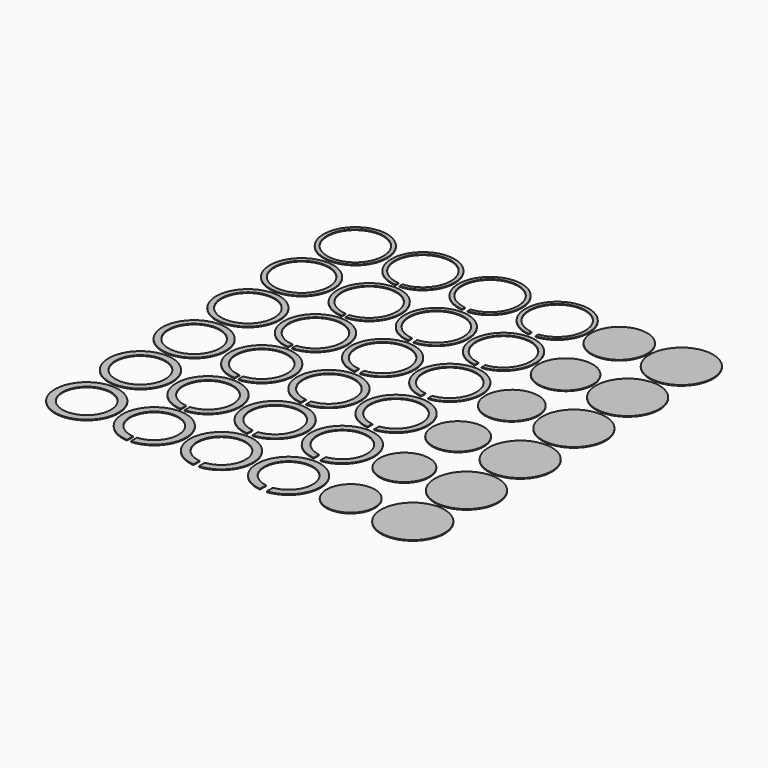
from build123d import *

# Parameters (mm, degrees)
F1_DEPTH = 1
F2_R     = 37
F2_R_2   = 42
F2_R_3   = 36
F2_R_4   = 35
F2_R_5   = 34
F2_R_6   = 33
F2_R_7   = 32
F3_DEPTH = 1
F4_R     = 42
F4_R_2   = 37
F4_R_3   = 36
F4_R_4   = 35
F4_R_5   = 34
F4_R_6   = 33
F4_R_7   = 32
F5_DEPTH = 1


with BuildPart() as f1:
    # F0 (on Top) → F1 (new body)
    with BuildSketch(Plane.XY):
        with BuildLine():
            Line((2.5, -36.915444), (2.5, -41.925529))
            ThreePointArc((2.5, -41.925529), (0, 42), (-2.5, -41.925529))
            Line((-2.5, -41.925529), (-2.5, -36.915444))
            ThreePointArc((-2.5, -36.915444), (0, 37), (2.5, -36.915444))
        make_face()
        with BuildLine():
            Line((92.4, -36.834087), (92.4, -41.853913))
            ThreePointArc((92.4, -41.853913), (88.9, 42), (85.4, -41.853913))
            Line((85.4, -41.853913), (85.4, -36.834087))
            ThreePointArc((85.4, -36.834087), (88.9, 37), (92.4, -36.834087))
        make_face()
        with BuildLine():
            Line((182.3, -36.725332), (182.3, -41.758233))
            ThreePointArc((182.3, -41.758233), (177.8, 42), (173.3, -41.758233))
            Line((173.3, -41.758233), (173.3, -36.725332))
            ThreePointArc((173.3, -36.725332), (177.8, 37), (182.3, -36.725332))
        make_face()
        with BuildLine():
            Line((92.4, -124.729457), (92.4, -130.753913))
            ThreePointArc((92.4, -130.753913), (88.9, -46.9), (85.4, -130.753913))
            Line((85.4, -130.753913), (85.4, -124.729457))
            ThreePointArc((85.4, -124.729457), (88.9, -52.9), (92.4, -124.729457))
        make_face()
        with BuildLine():
            Line((182.3, -124.617643), (182.3, -130.658233))
            ThreePointArc((182.3, -130.658233), (177.8, -46.9), (173.3, -130.658233))
            Line((173.3, -130.658233), (173.3, -124.617643))
            ThreePointArc((173.3, -124.617643), (177.8, -52.9), (182.3, -124.617643))
        make_face()
        with BuildLine():
            Line((2.5, -124.81309), (2.5, -130.825529))
            ThreePointArc((2.5, -130.825529), (0, -46.9), (-2.5, -130.825529))
            Line((-2.5, -130.825529), (-2.5, -125.815444))
            Line((-2.5, -125.815444), (-2.5, -124.81309))
            ThreePointArc((-2.5, -124.81309), (0, -52.9), (2.5, -124.81309))
        make_face()
        with BuildLine():
            Line((92.4, -212.62456), (92.4, -219.653913))
            ThreePointArc((92.4, -219.653913), (88.9, -135.8), (85.4, -219.653913))
            Line((85.4, -219.653913), (85.4, -212.62456))
            ThreePointArc((85.4, -212.62456), (88.9, -142.8), (92.4, -212.62456))
        make_face()
        with BuildLine():
            Line((182.3, -212.509509), (182.3, -219.558233))
            ThreePointArc((182.3, -219.558233), (177.8, -135.8), (173.3, -219.558233))
            Line((173.3, -219.558233), (173.3, -212.509509))
            ThreePointArc((173.3, -212.509509), (177.8, -142.8), (182.3, -212.509509))
        make_face()
        with BuildLine():
            Line((2.5, -212.7106), (2.5, -219.725529))
            ThreePointArc((2.5, -219.725529), (0, -135.8), (-2.5, -219.725529))
            Line((-2.5, -219.725529), (-2.5, -212.7106))
            ThreePointArc((-2.5, -212.7106), (0, -142.8), (2.5, -212.7106))
        make_face()
        with BuildLine():
            Line((92.4, -300.519373), (92.4, -308.553913))
            ThreePointArc((92.4, -308.553913), (88.9, -224.7), (85.4, -308.553913))
            Line((85.4, -308.553913), (85.4, -300.519373))
            ThreePointArc((85.4, -300.519373), (88.9, -232.7), (92.4, -300.519373))
        make_face()
        with BuildLine():
            Line((182.3, -300.40089), (182.3, -308.458233))
            ThreePointArc((182.3, -308.458233), (177.8, -224.7), (173.3, -308.458233))
            Line((173.3, -308.458233), (173.3, -300.40089))
            ThreePointArc((173.3, -300.40089), (177.8, -232.7), (182.3, -300.40089))
        make_face()
        with BuildLine():
            Line((2.5, -300.607964), (2.5, -308.625529))
            ThreePointArc((2.5, -308.625529), (0, -224.7), (-2.5, -308.625529))
            Line((-2.5, -308.625529), (-2.5, -300.607964))
            ThreePointArc((-2.5, -300.607964), (0, -232.7), (2.5, -300.607964))
        make_face()
        with BuildLine():
            Line((92.4, -388.413869), (92.4, -397.453913))
            ThreePointArc((92.4, -397.453913), (88.9, -313.6), (85.4, -397.453913))
            Line((85.4, -397.453913), (85.4, -388.413869))
            ThreePointArc((85.4, -388.413869), (88.9, -322.6), (92.4, -388.413869))
        make_face()
        with BuildLine():
            Line((182.3, -388.291742), (182.3, -397.358233))
            ThreePointArc((182.3, -397.358233), (177.8, -313.6), (173.3, -397.358233))
            Line((173.3, -397.358233), (173.3, -388.291742))
            ThreePointArc((173.3, -388.291742), (177.8, -322.6), (182.3, -388.291742))
        make_face()
        with BuildLine():
            Line((2.5, -388.505167), (2.5, -397.525529))
            ThreePointArc((2.5, -397.525529), (0, -313.6), (-2.5, -397.525529))
            Line((-2.5, -397.525529), (-2.5, -388.505167))
            ThreePointArc((-2.5, -388.505167), (0, -322.6), (2.5, -388.505167))
        make_face()
        with BuildLine():
            Line((92.4, -476.308018), (92.4, -486.353913))
            ThreePointArc((92.4, -486.353913), (88.9, -402.5), (85.4, -486.353913))
            Line((85.4, -486.353913), (85.4, -476.308018))
            ThreePointArc((85.4, -476.308018), (88.9, -412.5), (92.4, -476.308018))
        make_face()
        with BuildLine():
            Line((182.3, -476.182014), (182.3, -486.258233))
            ThreePointArc((182.3, -486.258233), (177.8, -402.5), (173.3, -486.258233))
            Line((173.3, -486.258233), (173.3, -476.182014))
            ThreePointArc((173.3, -476.182014), (177.8, -412.5), (182.3, -476.182014))
        make_face()
        with BuildLine():
            Line((2.5, -476.402194), (2.5, -486.425529))
            ThreePointArc((2.5, -486.425529), (0, -402.5), (-2.5, -486.425529))
            Line((-2.5, -486.425529), (-2.5, -476.402194))
            ThreePointArc((-2.5, -476.402194), (0, -412.5), (2.5, -476.402194))
        make_face()
    extrude(amount=F1_DEPTH)


with BuildPart() as f3:
    # F2 (on Top) → F3 (new body)
    with BuildSketch(Plane.XY):
        with Locations((259.975, 0)):
            Circle(F2_R)
        with Locations((342.15, 0)):
            Circle(F2_R_2)
        with Locations((342.15, -88.9)):
            Circle(F2_R_2)
        with Locations((342.15, -177.8)):
            Circle(F2_R_2)
        with Locations((342.15, -266.7)):
            Circle(F2_R_2)
        with Locations((342.15, -355.6)):
            Circle(F2_R_2)
        with Locations((342.15, -444.5)):
            Circle(F2_R_2)
        with Locations((259.975, -88.9)):
            Circle(F2_R_3)
        with Locations((259.975, -177.8)):
            Circle(F2_R_4)
        with Locations((259.975, -266.7)):
            Circle(F2_R_5)
        with Locations((259.975, -355.6)):
            Circle(F2_R_6)
        with Locations((259.975, -444.5)):
            Circle(F2_R_7)
    extrude(amount=F3_DEPTH)


with BuildPart() as f5:
    # F4 (on Top) → F5 (new body)
    with BuildSketch(Plane.XY):
        with Locations((-89.461, 0)):
            Circle(F4_R)
        with Locations((-89.461, 0)):
            Circle(F4_R_2, mode=Mode.SUBTRACT)
        with Locations((-89.461, -88.9)):
            Circle(F4_R)
        with Locations((-89.461, -88.9)):
            Circle(F4_R_3, mode=Mode.SUBTRACT)
        with Locations((-89.461, -177.8)):
            Circle(F4_R)
        with Locations((-89.461, -177.8)):
            Circle(F4_R_4, mode=Mode.SUBTRACT)
        with Locations((-89.461, -266.7)):
            Circle(F4_R)
        with Locations((-89.461, -266.7)):
            Circle(F4_R_5, mode=Mode.SUBTRACT)
        with Locations((-89.461, -355.6)):
            Circle(F4_R)
        with Locations((-89.461, -355.6)):
            Circle(F4_R_6, mode=Mode.SUBTRACT)
        with Locations((-89.461, -444.5)):
            Circle(F4_R)
        with Locations((-89.461, -444.5)):
            Circle(F4_R_7, mode=Mode.SUBTRACT)
    extrude(amount=F5_DEPTH)


solid = Compound([f1.part, f3.part, f5.part])
